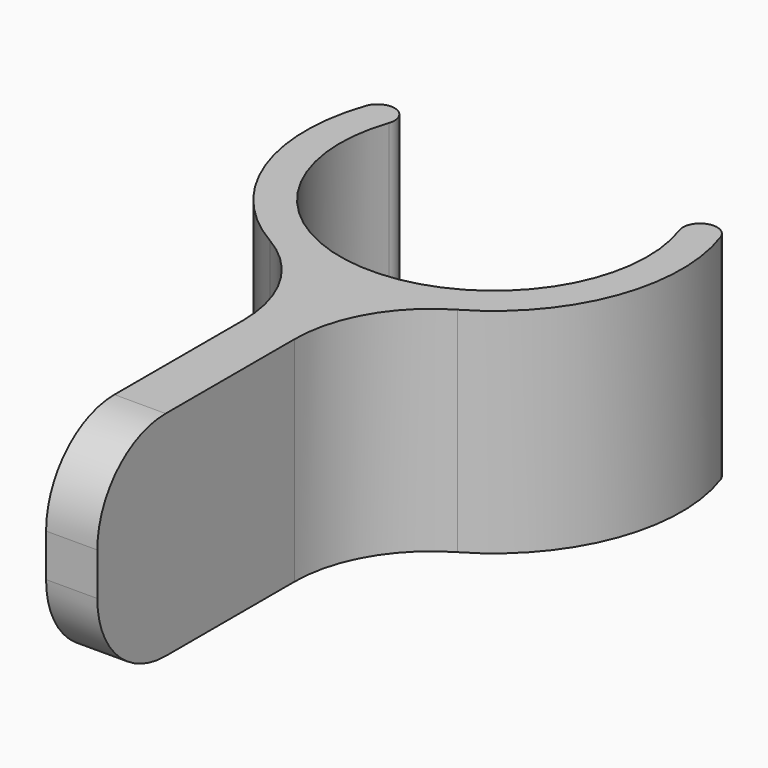
from build123d import *

# Parameters (mm, degrees)
PAD_DEPTH   = 12.5
FILLET_R    = 5
FILLET001_R = 8


with BuildPart() as part:
    # Sketch → Pad (new body)
    with BuildSketch(Plane.XY):
        with BuildLine():
            ThreePointArc((-8.5, 2.95804), (0, -9), (8.5, 2.95804))
            ThreePointArc((10.388889, 3.615382), (9.115773, 4.231155), (8.5, 2.95804))
            ThreePointArc((1.5, -10.897247), (9.380326, -5.745387), (10.388889, 3.615382))
            Line((1.5, -30.897247), (1.5, -10.897247))
            Line((-1.5, -30.897247), (1.5, -30.897247))
            Line((-1.5, -10.897247), (-1.5, -30.897247))
            ThreePointArc((-10.388889, 3.615382), (-9.380326, -5.745387), (-1.5, -10.897247))
            ThreePointArc((-8.5, 2.95804), (-9.115773, 4.231155), (-10.388889, 3.615382))
        make_face()
    extrude(amount=PAD_DEPTH)

    # Fillet
    fillet_edges = [part.edges().sort_by_distance(p)[0] for p in [
        (0, -30.897247, 0),
        (0, -30.897247, 12.5),
    ]]
    fillet(fillet_edges, radius=FILLET_R)

    # Fillet001
    fillet001_edges = [part.edges().sort_by_distance(p)[0] for p in [
        (1.5, -10.897247, 6.25),
        (-1.5, -10.897247, 6.25),
    ]]
    fillet(fillet001_edges, radius=FILLET001_R)


solid = part.part
